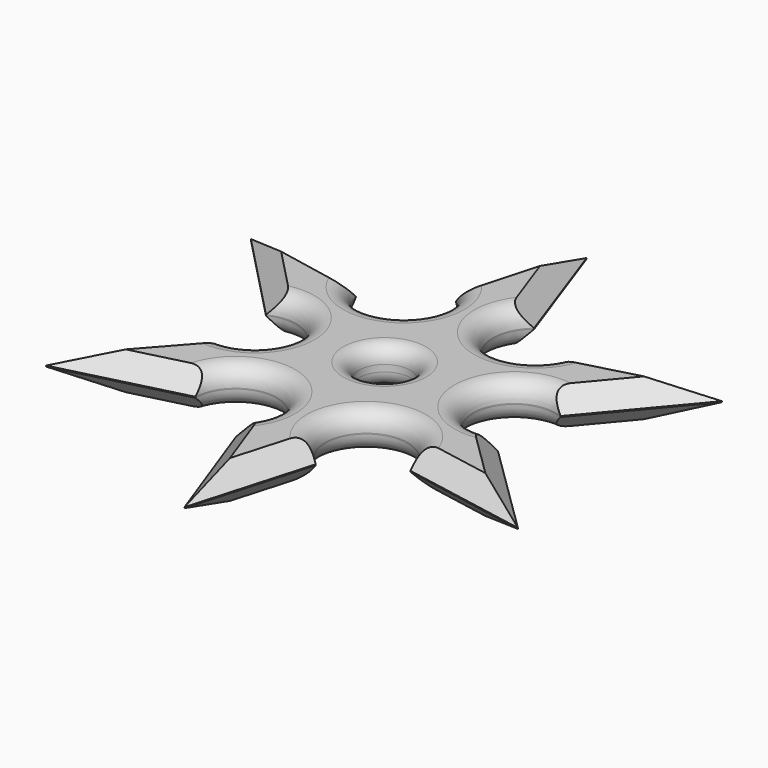
from build123d import *

# Parameters (mm, degrees)
F0_R     = 7.108935
F1_DEPTH = 10.414
F2_SIZE  = 5.08
F3_R     = 5.08
F4_R     = 4.292472


with BuildPart() as f1:
    # F0 (on Top) → F1 (new body)
    with BuildSketch(Plane.XY):
        with BuildLine():
            Line((41.937368, 25.106542), (30.321591, 57.739399))
            Line((30.321591, 57.739399), (20.967815, 24.387689))
            ThreePointArc((20.967815, 24.387689), (20.40093, 5.035855), (2.618713, 12.691417))
            Line((2.618713, 12.691417), (-31.759523, 19.427693))
            Line((-31.759523, 19.427693), (-7.137273, -6.123697))
            ThreePointArc((-7.137273, -6.123697), (9.340148, -15.360909), (-5.340913, -27.24779))
            Line((-5.340913, -27.24779), (-29.330852, -54.290995))
            Line((-29.330852, -54.290995), (4.909331, -45.567378))
            ThreePointArc((4.909331, -45.567378), (21.334572, -35.664086), (23.447013, -54.727174))
            Line((23.447013, -54.727174), (35.293084, -87.283373))
            Line((35.293084, -87.283373), (44.881862, -53.992371))
            ThreePointArc((44.881862, -53.992371), (45.683882, -34.829373), (62.748751, -43.584598))
            Line((62.748751, -43.584598), (97.505955, -49.942931))
            Line((97.505955, -49.942931), (71.720387, -24.606069))
            ThreePointArc((71.720387, -24.606069), (56.259765, -13.752468), (72.06593, -3.40855))
            Line((72.06593, -3.40855), (94.88059, 23.769014))
            Line((94.88059, 23.769014), (61.044367, 14.694293))
            ThreePointArc((61.044367, 14.694293), (43.828157, 5.838958), (41.937368, 25.106542))
        make_face()
        with Locations((32.742593, -15.003141)):
            Circle(F0_R, mode=Mode.SUBTRACT)
    extrude(amount=F1_DEPTH)

    # F2
    f2_edges = [f1.edges().sort_by_distance(p)[0] for p in [
        (-17.335882, -40.769393, 10.414),
        (-12.21076, -49.929187, 10.414),
        (29.370048, -71.005274, 10.414),
        (40.087473, -70.637872, 10.414),
        (80.127353, -46.763765, 10.414),
        (84.613171, -37.2745, 10.414),
        (83.47326, 10.180232, 10.414),
        (77.962479, 19.231654, 10.414),
        (36.129479, 41.422971, 10.414),
        (25.644703, 41.063544, 10.414),
        (-14.570405, 16.059555, 10.414),
        (-19.448398, 6.651998, 10.414),
        (-14.570405, 16.059555, 0),
        (-19.448398, 6.651998, 0),
        (-17.335882, -40.769393, 0),
        (-12.21076, -49.929187, 0),
        (29.370048, -71.005274, 0),
        (40.087473, -70.637872, 0),
        (80.127353, -46.763765, 0),
        (84.613171, -37.2745, 0),
        (83.47326, 10.180232, 0),
        (77.962479, 19.231654, 0),
        (25.644703, 41.063544, 0),
        (36.129479, 41.422971, 0),
    ]]
    chamfer(f2_edges, length=F2_SIZE)

    # F3
    f3_edges = [f1.edges().sort_by_distance(p)[0] for p in [
        (56.274754, -13.324933, 10.414),
        (45.800033, -34.762624, 10.414),
        (21.214123, -35.605449, 10.414),
        (9.295916, -14.935404, 10.414),
        (20.482892, 5.088581, 10.414),
        (43.742776, 5.885948, 10.414),
        (43.742776, 5.885948, 0),
        (56.274754, -13.324933, 0),
        (45.800033, -34.762624, 0),
        (21.214123, -35.605449, 0),
        (9.295916, -14.935404, 0),
        (20.482892, 5.088581, 0),
    ]]
    fillet(f3_edges, radius=F3_R)

    # F4
    f4_edges = [f1.edges().sort_by_distance(p)[0] for p in [
        (25.633659, -15.003141, 0),
        (25.633659, -15.003141, 10.414),
    ]]
    fillet(f4_edges, radius=F4_R)


solid = f1.part
